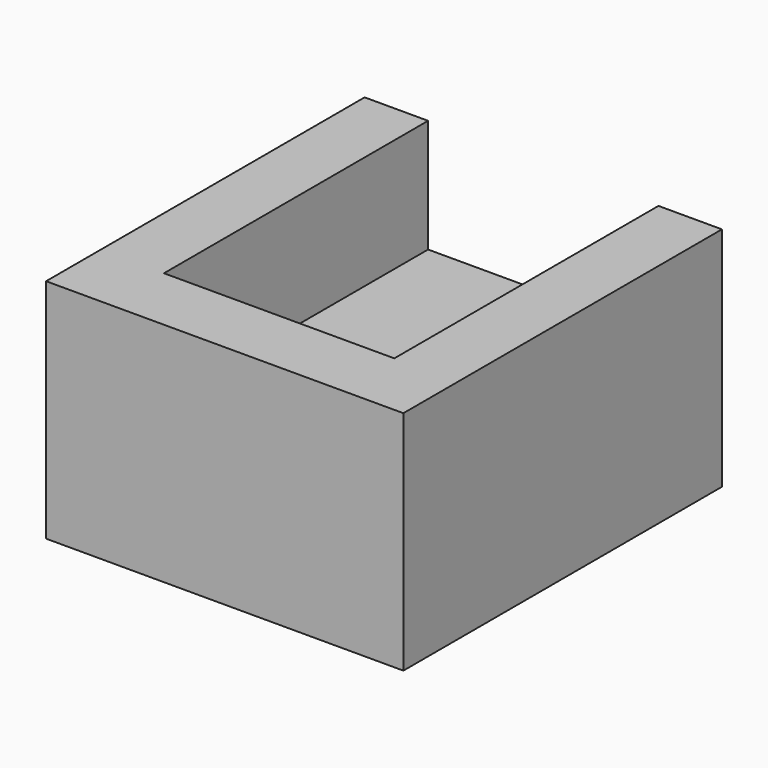
from build123d import *

# Parameters (mm, degrees)
F0_W     = 12.4
F0_H     = 18.5
F1_DEPTH = 6.35
F2_W     = 12.4
F2_H     = 12.7
F3_DEPTH = 3.81
F4_W     = 22.31
F4_H     = 12.7
F5_DEPTH = 3.81
F6_W     = 22.31
F6_H     = 12.7
F7_DEPTH = 3.81
F8_W     = 12.908
F8_H     = 18.5
F9_DEPTH = 6.35


with BuildPart() as f1:
    # F0 (on Top) → F1 (new body)
    with BuildSketch(Plane.XY):
        with Locations((-3.637616, -16.132845)):
            Rectangle(F0_W, F0_H)
    extrude(amount=F1_DEPTH)

    # F2 (on face) → F3 (join)
    with BuildSketch(Plane.XZ.offset(25.382845)):
        with Locations((-3.637616, 6.35)):
            Rectangle(F2_W, F2_H)
    extrude(amount=F3_DEPTH)

    # F4 (on face) → F5 (join)
    with BuildSketch(Plane.YZ.offset(2.562384)):
        with Locations((-18.037845, 6.35)):
            Rectangle(F4_W, F4_H)
    extrude(amount=F5_DEPTH)

    # F6 (on face) → F7 (join)
    with BuildSketch(Plane(origin=(-9.837616, 0, 0), x_dir=(0, -1, 0), z_dir=(-1, 0, 0))):
        with Locations((18.037845, 6.35)):
            Rectangle(F6_W, F6_H)
    extrude(amount=F7_DEPTH)

    # F8 (on face) → F9 (cut, through all)
    with BuildSketch(Plane.XY.offset(12.7)):
        with Locations((-3.637616, -16.132845)):
            Rectangle(F8_W, F8_H)
    extrude(amount=-F9_DEPTH, mode=Mode.SUBTRACT)


solid = f1.part
